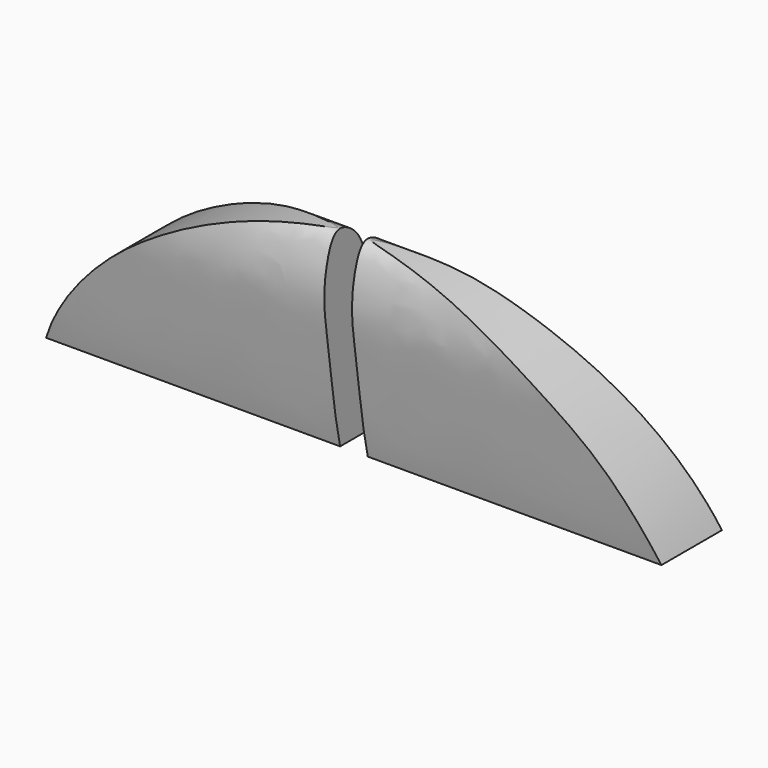
from build123d import *

# Parameters (mm, degrees)
F1_DEPTH = 92
F2_W     = 92
F2_H     = 119.840739489
F3_DEPTH = 230
F4_DEPTH = 334


with BuildPart() as f1:
    # F0 (on Front) → F1 (new body)
    with BuildSketch(Plane.XZ):
        with BuildLine():
            Line((-7.5, -120), (-7.5, -0.1907012082))
            add(Edge.make_bspline(
                [(-172.5, -120), (-156.1258846894, -58.8768246592), (-82.4468001342, -3.8281453279), (-7.5, -0.1907012082)],
                knots=[0, 0, 0, 0, 0.4838643684, 0.4838643684, 0.4838643684, 0.4838643684], degree=3))
            Line((-172.5, -120), (-7.5, -120))
        make_face()
    extrude(amount=F1_DEPTH)


with BuildPart() as f1b:
    # F0 (on Front) → F1, piece 2 (new body)
    with BuildSketch(Plane.XZ):
        with BuildLine():
            add(Edge.make_bspline(
                [(7.5, -0.159260511), (82.3691409292, -3.4830878335), (154.8841413173, -58.2452413807), (172.5, -120)],
                knots=[0.5161439912, 0.5161439912, 0.5161439912, 0.5161439912, 1, 1, 1, 1], degree=3))
            Line((7.5, -0.159260511), (7.5, -120))
            Line((7.5, -120), (172.5, -120))
        make_face()
    extrude(amount=F1_DEPTH)


with BuildPart() as f3_tool:
    # F2 (on face) → F3 (new body, symmetric)
    with BuildSketch(Plane(origin=(7.5, 0, 0), x_dir=(0, -1, 0), z_dir=(-1, 0, 0))):
        with Locations((46, -60.0796302555)):
            Rectangle(F2_W, F2_H)
        with BuildLine():
            add(Edge.make_bspline(
                [(70.8847366065, -104.3680866038), (74.8790653599, -87.2669503297), (77.8495516093, -57.3584226869), (82.8456099301, -31.7846507179), (80.0127403928, -10.5389206366), (73.3660068325, 2.947746858), (59.1192560984, -5.1975360601), (53.6731562051, -18.4167727895), (40.6854421963, -54.0510931228), (33.7079174436, -86.5579808298), (29.8847366065, -104.3680866038)],
                knots=[0, 0, 0, 0, 0.1712115983, 0.2963533959, 0.4097746976, 0.4929738738, 0.5787757173, 0.6713135778, 0.8202304744, 1, 1, 1, 1], degree=3))
            Line((70.8847366065, -104.3680866038), (29.8847366065, -104.3680866038))
        make_face(mode=Mode.SUBTRACT)
    extrude(amount=F3_DEPTH, both=True)


with BuildPart() as f1_1:
    add(f1.part)

    # F3: cut by f3_tool
    add(f3_tool.part, mode=Mode.SUBTRACT)

    # F2 (on face) → F4 (cut)
    with BuildSketch(Plane(origin=(7.5, 0, 0), x_dir=(0, -1, 0), z_dir=(-1, 0, 0))):
        Polygon((136.8817863986, -133.2194168841), (122.9097638279, 18.0429754058), (-8.913285099, 18.0429754058), (-8.913285099, -133.2194168841), align=None)
        with BuildLine():
            add(Edge.make_bspline(
                [(70.8847366065, -104.3680866038), (74.8790653599, -87.2669503297), (77.8495516093, -57.3584226869), (82.8456099301, -31.7846507179), (80.0127403928, -10.5389206366), (73.3660068325, 2.947746858), (59.1192560984, -5.1975360601), (53.6731562051, -18.4167727895), (40.6854421963, -54.0510931228), (33.7079174436, -86.5579808298), (29.8847366065, -104.3680866038)],
                knots=[0, 0, 0, 0, 0.1712115983, 0.2963533959, 0.4097746976, 0.4929738738, 0.5787757173, 0.6713135778, 0.8202304744, 1, 1, 1, 1], degree=3))
            Line((70.8847366065, -104.3680866038), (29.8847366065, -104.3680866038))
        make_face(mode=Mode.SUBTRACT)
    extrude(amount=F4_DEPTH, mode=Mode.SUBTRACT)


with BuildPart() as f1b_1:
    add(f1b.part)

    # F3: cut by f3_tool
    add(f3_tool.part, mode=Mode.SUBTRACT)


solid = Compound([f1_1.part, f1b_1.part])
